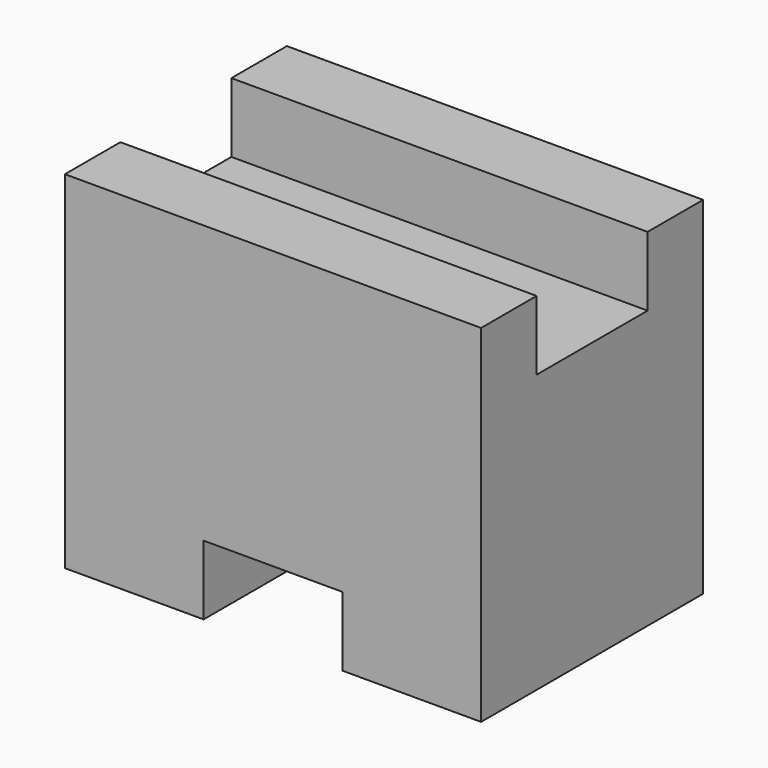
from build123d import *

# Parameters (mm, degrees)
F1_DEPTH = 25.4
F2_W     = 12.7
F2_H     = 6.35
F3_DEPTH = 38.101


with BuildPart() as f1:
    # F0 (on Front) → F1 (new body)
    with BuildSketch(Plane.XZ):
        Polygon((49.876539, 31.655866), (11.776539, 31.655866), (11.776539, -0.094134), (24.476539, -0.094134), (24.476539, 6.255866), (37.176539, 6.255866), (37.176539, -0.094134), (49.876539, -0.094134), align=None)
    extrude(amount=F1_DEPTH)

    # F2 (on face) → F3 (cut, through all)
    with BuildSketch(Plane.YZ.offset(49.876539)):
        with Locations((-12.7, 28.480866)):
            Rectangle(F2_W, F2_H)
    extrude(amount=-F3_DEPTH, mode=Mode.SUBTRACT)


solid = f1.part
